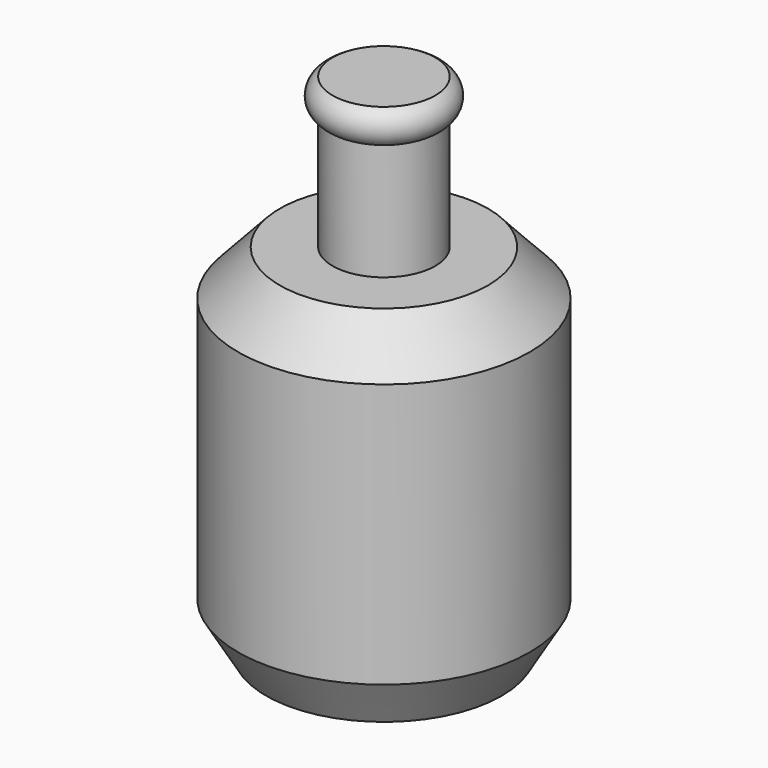
from build123d import *


with BuildPart() as f1:
    # F0 (on Front) → F1 (revolve)
    with BuildSketch(Plane.XZ):
        with BuildLine():
            Line((0, 196.175724), (0, 0))
            Line((0, 0), (45.62404, 0))
            Line((45.62404, 0), (56.435961, 18.320203))
            Line((56.435961, 18.320203), (56.435961, 120.61248))
            Line((56.435961, 120.61248), (40.285051, 138.085514))
            Line((40.285051, 138.085514), (19.899841, 138.085514))
            Line((19.899841, 138.085514), (19.899841, 183.134019))
            ThreePointArc((19.899841, 183.134019), (23.940072, 189.654872), (19.899841, 196.175724))
            Line((19.899841, 196.175724), (0, 196.175724))
        make_face()
    revolve(axis=Axis((0, 0, 98.087862), (0, 0, -1)))


solid = f1.part
